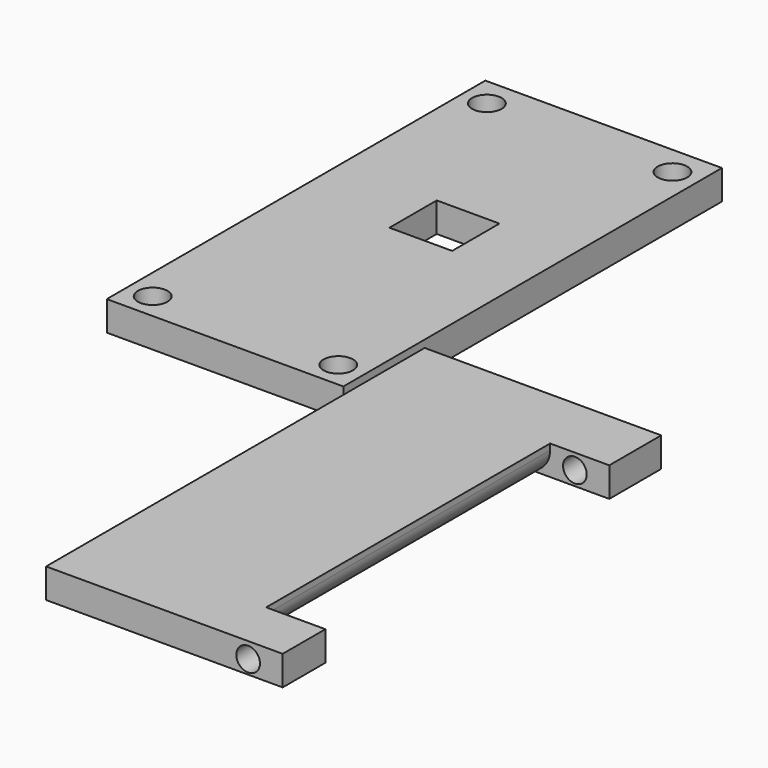
from build123d import *

# Parameters (mm, degrees)
F0_W      = 50.8
F0_H      = 101.6
F1_DEPTH  = 6.35
F3_R      = 3.175
F4_DEPTH  = 25.4
F6_W      = 13.469696
F6_H      = 12.7
F7_DEPTH  = 25.4
F8_W      = 50.8
F8_H      = 101.6
F9_DEPTH  = 6.35
F10_W     = 12.7
F10_H     = 76.2
F11_DEPTH = 25.4
F12_R     = 2.54
F13_DEPTH = 25.4
F14_R     = 2.54
F15_DEPTH = 25.4
F16_R     = 5.08


with BuildPart() as f1:
    # F0 (on Top) → F1 (new body)
    with BuildSketch(Plane.XY):
        with Locations((-2.154493, 27.9817)):
            Rectangle(F0_W, F0_H)
    extrude(amount=F1_DEPTH)

    # F3 (on face) → F4 (cut)
    with BuildSketch(Plane.XY.offset(6.35)):
        with Locations((-22.174506, 72.468052)):
            Circle(F3_R)
        with Locations((-22.174506, -17.225419)):
            Circle(F3_R)
        with Locations((17.679164, 72.468052)):
            Circle(F3_R)
        with Locations((17.679164, -17.225419)):
            Circle(F3_R)
    extrude(amount=-F4_DEPTH, mode=Mode.SUBTRACT)

    # F6 (on face) → F7 (cut)
    with BuildSketch(Plane.XY.offset(6.35)):
        with Locations((0, 33.368628)):
            Rectangle(F6_W, F6_H)
    extrude(amount=-F7_DEPTH, mode=Mode.SUBTRACT)


with BuildPart() as f9:
    # F8 (on Top) → F9 (new body)
    with BuildSketch(Plane.XY):
        with Locations((50.543553, -54.180697)):
            Rectangle(F8_W, F8_H)
    extrude(amount=F9_DEPTH)

    # F10 (on face) → F11 (cut)
    with BuildSketch(Plane.XY.offset(6.35)):
        with Locations((69.593553, -55.422756)):
            Rectangle(F10_W, F10_H)
    extrude(amount=-F11_DEPTH, mode=Mode.SUBTRACT)

    # F12 (on face) → F13 (cut)
    with BuildSketch(Plane.XZ.offset(104.980697)):
        with Locations((68.526365, 2.941298)):
            Circle(F12_R)
    extrude(amount=-F13_DEPTH, mode=Mode.SUBTRACT)

    # F14 (on face) → F15 (cut)
    with BuildSketch(Plane(origin=(0, -3.380697, 0), x_dir=(-1, 0, 0), z_dir=(0, 1, 0))):
        with Locations((-68.559483, 3.039024)):
            Circle(F14_R)
    extrude(amount=-F15_DEPTH, mode=Mode.SUBTRACT)

    # F16
    f16_edges = [f9.edges().sort_by_distance(p)[0] for p in [
        (63.243553, -55.422756, 0),
    ]]
    fillet(f16_edges, radius=F16_R)


solid = Compound([f1.part, f9.part])
